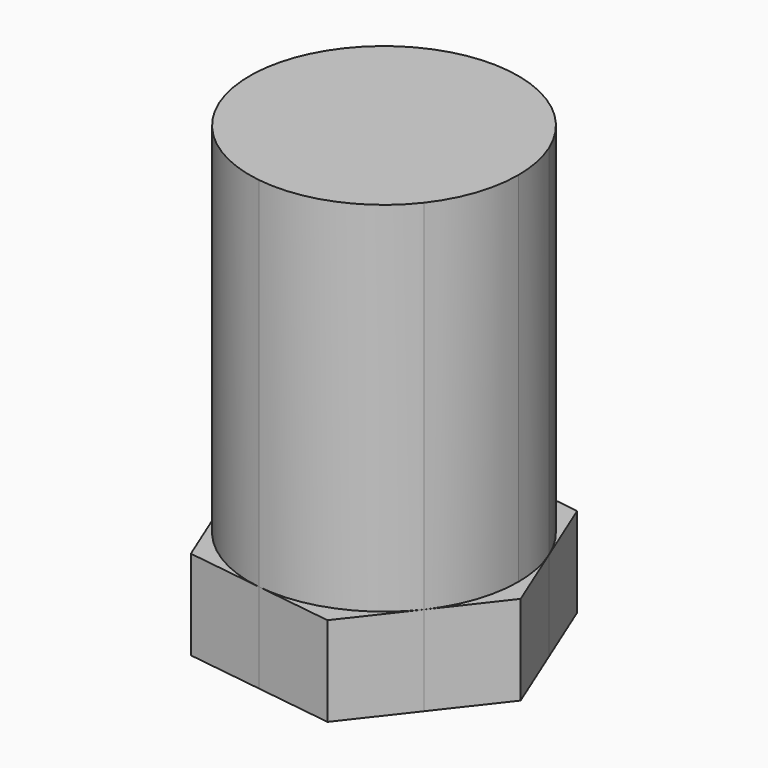
from build123d import *

# Parameters (mm, degrees)
F1_DEPTH = 50
F2_DEPTH = 10


with BuildPart() as f1:
    # F0 (on Top) → F1 (new body)
    with BuildSketch(Plane.XY):
        with BuildLine():
            ThreePointArc((11.839883, -9.209624), (14.187992, -4.868355), (15, 0))
            ThreePointArc((15, 0), (14.721339, 2.877877), (13.89571, 5.648828))
            ThreePointArc((13.89571, 5.648828), (9.209623, 11.839883), (2.055826, 14.858451))
            ThreePointArc((2.055826, 14.858451), (-5.648828, 13.895709), (-11.839883, 9.209624))
            ThreePointArc((-11.839883, 9.209624), (-14.858451, 2.055826), (-13.895709, -5.648828))
            ThreePointArc((-13.895709, -5.648828), (-9.209623, -11.839883), (-2.055826, -14.858451))
            ThreePointArc((-2.055826, -14.858451), (5.648828, -13.895709), (11.839883, -9.209624))
        make_face()
    extrude(amount=F1_DEPTH)

    # F0 (on Top) → F2 (join)
    with BuildSketch(Plane.XY):
        with BuildLine():
            ThreePointArc((13.89571, 5.648828), (14.721339, 2.877877), (15, 0))
            ThreePointArc((15, 0), (14.187992, -4.868355), (11.839883, -9.209624))
            Line((11.839883, -9.209624), (17.157062, -2.373863))
            Line((17.157062, -2.373863), (13.89571, 5.648828))
        make_face()
        with BuildLine():
            ThreePointArc((2.055826, 14.858451), (9.209623, 11.839883), (13.89571, 5.648828))
            Line((13.89571, 5.648828), (10.634357, 13.67152))
            Line((10.634357, 13.67152), (2.055826, 14.858451))
        make_face()
        with BuildLine():
            Line((6.522705, -16.045383), (11.839883, -9.209624))
            ThreePointArc((11.839883, -9.209624), (5.648828, -13.895709), (-2.055826, -14.858451))
            Line((-2.055826, -14.858451), (6.522705, -16.045383))
        make_face()
        with BuildLine():
            ThreePointArc((-11.839883, 9.209624), (-5.648828, 13.895709), (2.055826, 14.858451))
            Line((2.055826, 14.858451), (-6.522705, 16.045383))
            Line((-6.522705, 16.045383), (-11.839883, 9.209624))
        make_face()
        with BuildLine():
            Line((-10.634357, -13.67152), (-2.055826, -14.858451))
            ThreePointArc((-2.055826, -14.858451), (-9.209623, -11.839883), (-13.895709, -5.648828))
            Line((-13.895709, -5.648828), (-10.634357, -13.67152))
        make_face()
        with BuildLine():
            ThreePointArc((-13.895709, -5.648828), (-14.858451, 2.055826), (-11.839883, 9.209624))
            Line((-11.839883, 9.209624), (-17.157062, 2.373863))
            Line((-17.157062, 2.373863), (-13.895709, -5.648828))
        make_face()
    extrude(amount=F2_DEPTH)


solid = f1.part
